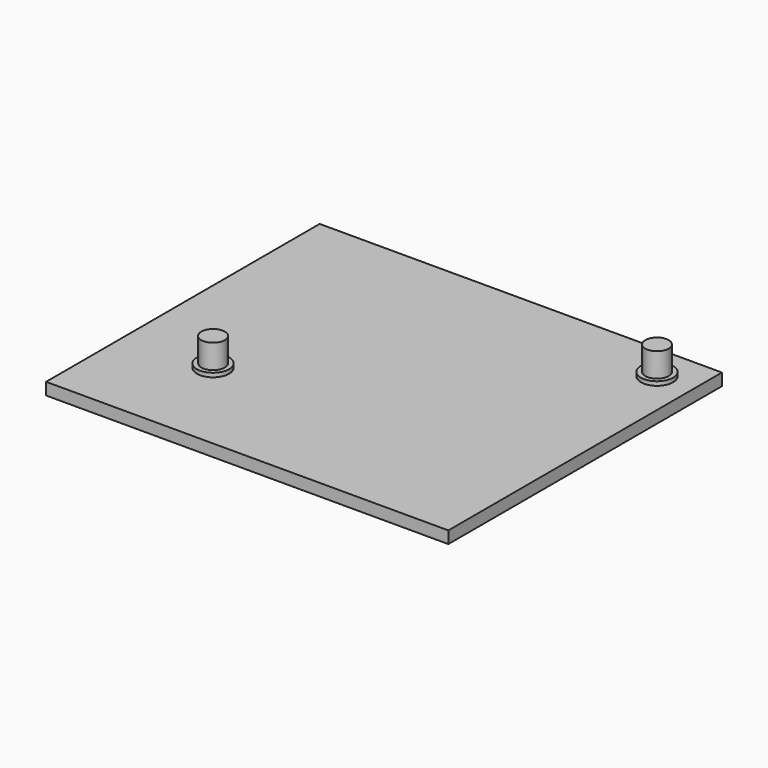
from build123d import *

# Parameters (mm, degrees)
F0_W     = 100
F0_H     = 85
F1_DEPTH = 3
F2_R     = 2.9
F3_DEPTH = 7
F2_R_2   = 4
F4_DEPTH = 1


with BuildPart() as f1:
    # F0 (on Top) → F1 (new body)
    with BuildSketch(Plane.XY):
        with Locations((-15.346884, 6.289634)):
            Rectangle(F0_W, F0_H)
    extrude(amount=F1_DEPTH)

    # F2 (on face) → F3 (join)
    with BuildSketch(Plane.XY.offset(3)):
        with Locations((-43.702953, -11.385884)):
            Circle(F2_R)
        with Locations((25.821336, 39.657585)):
            Circle(F2_R)
    extrude(amount=F3_DEPTH)

    # F2 (on face) → F4 (join)
    with BuildSketch(Plane.XY.offset(3)):
        with Locations((-43.702953, -11.385884)):
            Circle(F2_R_2)
        with Locations((-43.702953, -11.385884)):
            Circle(F2_R, mode=Mode.SUBTRACT)
        with Locations((25.821336, 39.657585)):
            Circle(F2_R_2)
        with Locations((25.821336, 39.657585)):
            Circle(F2_R, mode=Mode.SUBTRACT)
    extrude(amount=F4_DEPTH)


solid = f1.part
